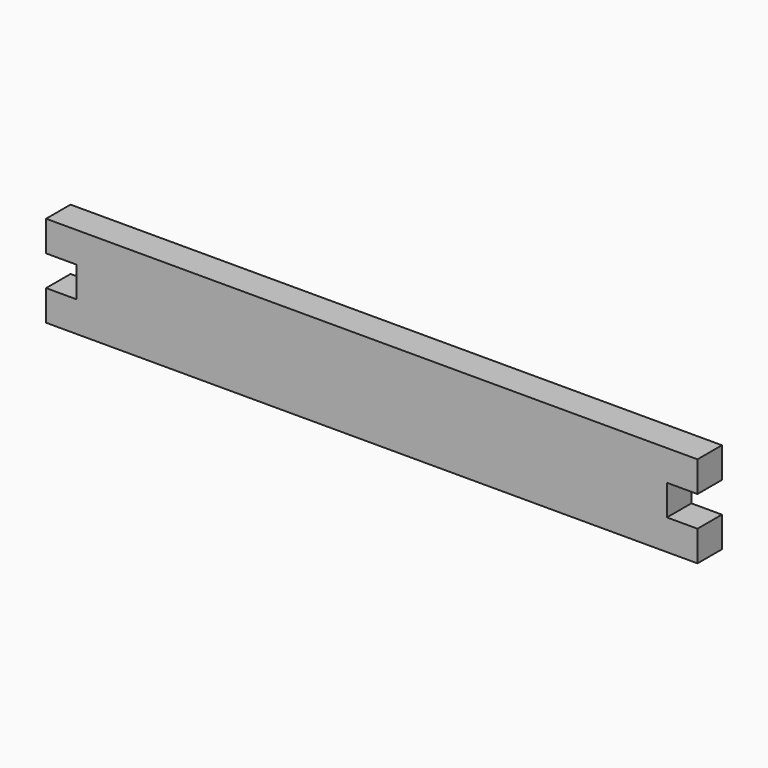
from build123d import *

# Parameters (mm, degrees)
F0_W     = 203.2
F0_H     = 28.575
F1_DEPTH = 9.525
F2_W     = 9.525
F2_H     = 9.525
F3_DEPTH = 9.525


with BuildPart() as f1:
    # F0 (on Front) → F1 (new body)
    with BuildSketch(Plane.XZ):
        with Locations((101.6, 14.2875)):
            Rectangle(F0_W, F0_H)
    extrude(amount=F1_DEPTH)

    # F2 (on Front) → F3 (cut, through all)
    with BuildSketch(Plane.XZ):
        with Locations((4.7625, 14.2875)):
            Rectangle(F2_W, F2_H)
        with Locations((198.4375, 14.2875)):
            Rectangle(F2_W, F2_H)
    extrude(amount=F3_DEPTH, mode=Mode.SUBTRACT)


solid = f1.part
